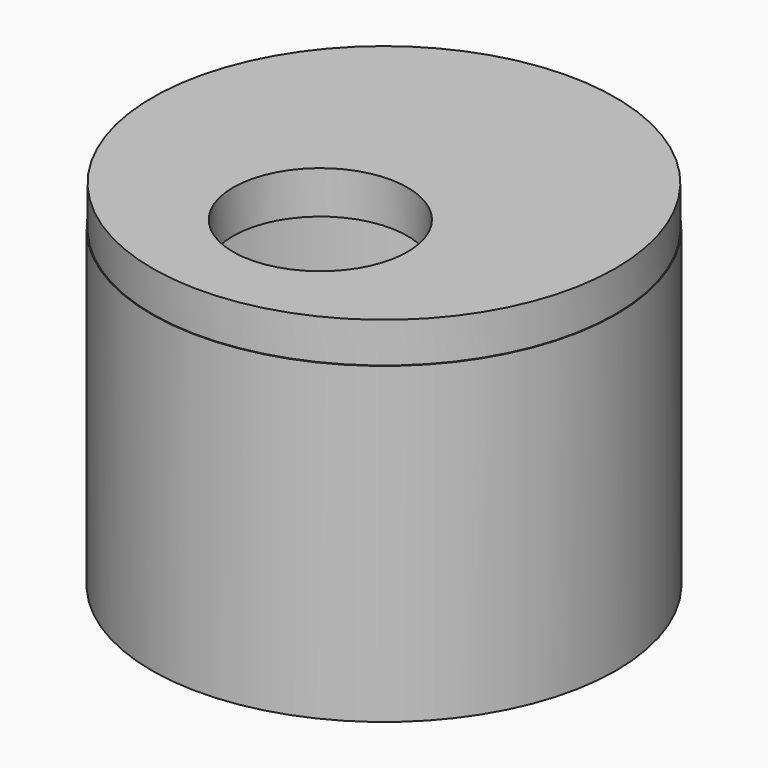
from build123d import *

# Parameters (mm, degrees)
F0_R     = 23.975
F1_DEPTH = 32.35
F2_DEPTH = 3
F3_START = 28.5
F0_R_2   = 19.5
F0_R_3   = 18.25
F3_DEPTH = 3.9
F5_START = 32.1
F4_R     = 23.8900958131
F5_DEPTH = 4.4
F7_D     = 18


with BuildPart() as f1:
    # F0 (on Top) → F1 (new body)
    with BuildSketch(Plane.XY):
        Circle(F0_R)
        with BuildLine():
            Line((22.225, 1.7580471948), (22.225, 0))
            Line((22.225, 0), (22.225, -1.4919528052))
            Line((22.225, -1.4919528052), (22.1748664444, -1.4919528052))
            ThreePointArc((22.1748664444, -1.4919528052), (15.7625328318, -15.6682220984), (1.625, -22.1655137545))
            Line((1.625, -22.1655137545), (1.625, -22.225))
            Line((1.625, -22.225), (0, -22.225))
            Line((0, -22.225), (-1.625, -22.225))
            Line((-1.625, -22.225), (-1.625, -22.1655137545))
            ThreePointArc((-1.625, -22.1655137545), (-15.7154482119, -15.7154482119), (-22.1655137545, -1.625))
            Line((-22.1655137545, -1.625), (-22.225, -1.625))
            Line((-22.225, -1.625), (-22.225, 0))
            Line((-22.225, 0), (-22.225, 1.625))
            Line((-22.225, 1.625), (-22.1655137545, 1.625))
            ThreePointArc((-22.1655137545, 1.625), (-15.7154482119, 15.7154482119), (-1.625, 22.1655137545))
            Line((-1.625, 22.1655137545), (-1.625, 22.225))
            Line((-1.625, 22.225), (0, 22.225))
            Line((0, 22.225), (1.625, 22.225))
            Line((1.625, 22.225), (1.625, 22.1655137545))
            ThreePointArc((1.625, 22.1655137545), (15.6682012804, 15.7625535253), (22.1553581569, 1.7580471948))
            Line((22.1553581569, 1.7580471948), (22.225, 1.7580471948))
        make_face(mode=Mode.SUBTRACT)
    extrude(amount=F1_DEPTH)

    # F0 (on Top) → F2 (join)
    with BuildSketch(Plane.XY):
        with BuildLine():
            Line((1.625, 20.625), (1.625, 22.1655137545))
            ThreePointArc((1.625, 22.1655137545), (0.8130442198, 22.2101234597), (0, 22.225))
            ThreePointArc((0, 22.225), (-0.8130442198, 22.2101234597), (-1.625, 22.1655137545))
            Line((-1.625, 22.1655137545), (-1.625, 20.625))
            Line((-1.625, 20.625), (1.625, 20.625))
        make_face()
        with BuildLine():
            ThreePointArc((22.1748664444, -1.4919528052), (22.2124630751, -0.7463974387), (22.225, 0))
            ThreePointArc((22.225, 0), (22.2075827144, 0.8797130108), (22.1553581569, 1.7580471948))
            Line((22.1553581569, 1.7580471948), (20.625, 1.7580471948))
            Line((20.625, 1.7580471948), (20.625, -1.4919528052))
            Line((20.625, -1.4919528052), (22.1748664444, -1.4919528052))
        make_face()
        with BuildLine():
            ThreePointArc((0, -22.225), (0.8130442198, -22.2101234597), (1.625, -22.1655137545))
            Line((1.625, -22.1655137545), (1.625, -20.625))
            Line((1.625, -20.625), (-1.625, -20.625))
            Line((-1.625, -20.625), (-1.625, -22.1655137545))
            ThreePointArc((-1.625, -22.1655137545), (-0.8130442198, -22.2101234597), (0, -22.225))
        make_face()
        with BuildLine():
            Line((-20.625, 1.625), (-22.1655137545, 1.625))
            ThreePointArc((-22.1655137545, 1.625), (-22.2101234597, 0.8130442198), (-22.225, 0))
            ThreePointArc((-22.225, 0), (-22.2101234597, -0.8130442198), (-22.1655137545, -1.625))
            Line((-22.1655137545, -1.625), (-20.625, -1.625))
            Line((-20.625, -1.625), (-20.625, 1.625))
        make_face()
    extrude(amount=F2_DEPTH)


with BuildPart() as f3:
    # F0 (on Top) → F3 (new body)
    with BuildSketch(Plane.XY.offset(F3_START)):
        Circle(F0_R_2)
        Circle(F0_R_3, mode=Mode.SUBTRACT)
    extrude(amount=F3_DEPTH)


with BuildPart() as f5:
    # F4 (on Top) → F5 (new body)
    with BuildSketch(Plane.XY.offset(F5_START)):
        Circle(F4_R)
    extrude(amount=F5_DEPTH)

    # F7 (through all)
    with Locations(Plane(origin=(0, 0, 0), x_dir=(1, 0, 0), z_dir=(0, 0, -1))):
        with Locations((0, 8.2097251497)):
            Hole(F7_D / 2)


solid = Compound([f1.part, f3.part, f5.part])
